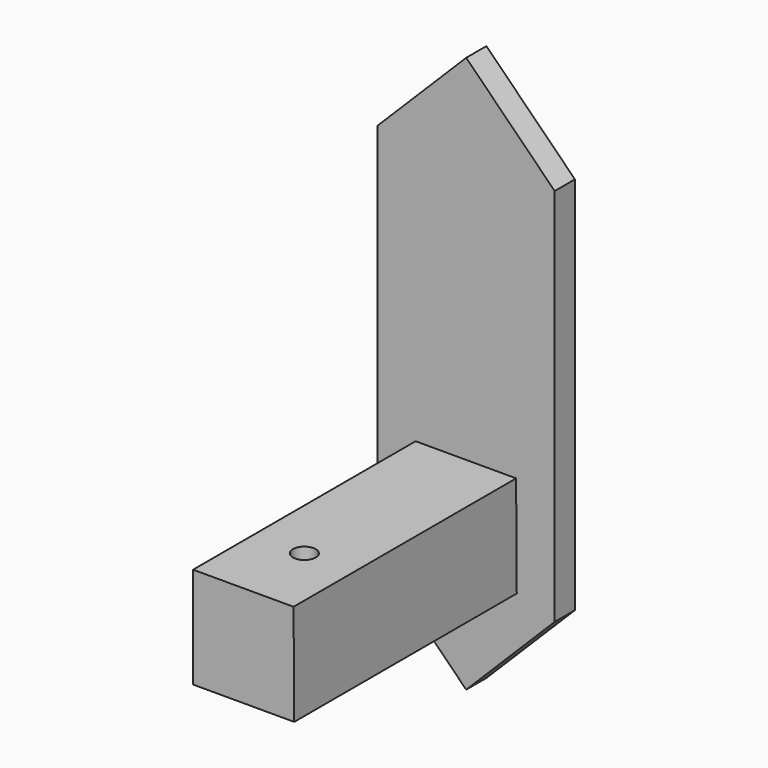
from build123d import *

# Parameters (mm, degrees)
PAD005_DEPTH            = 1
PAD006_DEPTH            = 11
SKETCH007_R             = 0.45
POCKET_DEPTH            = 10
BODY003_PLACEMENT_ANGLE = 90


with BuildPart() as part:
    # Sketch005 → Pad005 (new body)
    with BuildSketch(Plane.XY):
        Polygon((0, -11), (3.5, -7.5), (3.5, 7.5), (0, 11), (-3.5, 7.5), (-3.5, -7.5), align=None)
    extrude(amount=PAD005_DEPTH)

    # Sketch006 (on Face8 of Pad005) → Pad006 (join)
    with BuildSketch(Plane.XY.offset(1)):
        Polygon((-2, -3), (1.973969, -3), (2, -7), (-2, -7), align=None)
    extrude(amount=PAD006_DEPTH)

    # Sketch007 (on Face12 of Pad006) → Pocket (cut)
    with BuildSketch(Plane(origin=(0, -3, 0), x_dir=(-1, 0, 0), z_dir=(0, 1, 0))):
        with Locations((0, 9)):
            Circle(SKETCH007_R)
    extrude(amount=-POCKET_DEPTH, mode=Mode.SUBTRACT)


with BuildPart() as part_1:
    # Body003 placement: moved
    add(part.part.moved(Location((0, 9, -2))).rotate(Axis((0, 9, -2), (1, 0, 0)), BODY003_PLACEMENT_ANGLE))


solid = part_1.part
